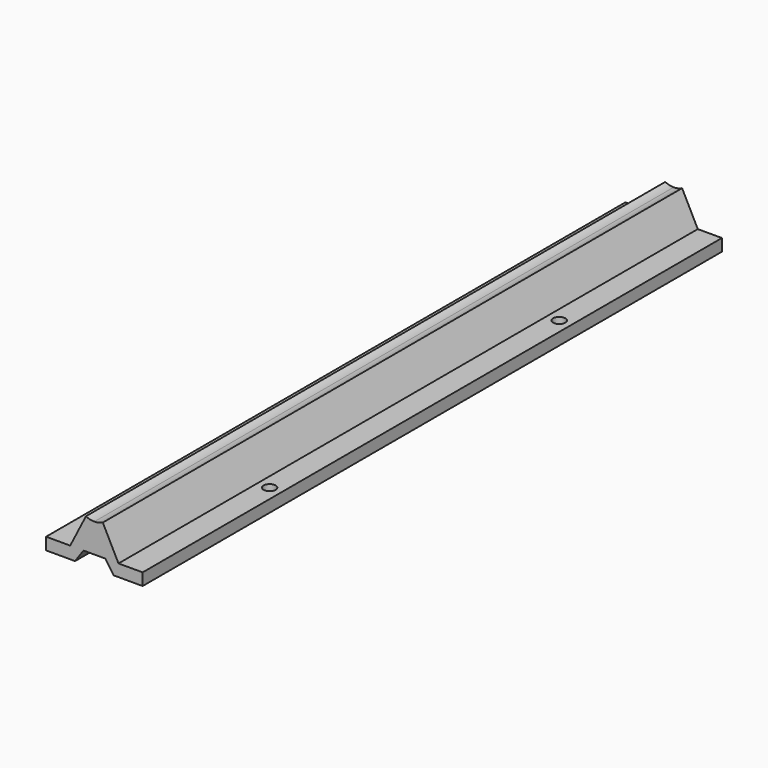
from build123d import *

# Parameters (mm, degrees)
F1_DEPTH = 300
F2_R     = 2.5
F3_DEPTH = 5


with BuildPart() as f1:
    # F0 (on Front) → F1 (new body)
    with BuildSketch(Plane.XZ):
        with BuildLine():
            Line((-4.5, -20), (0, -20))
            Line((0, -20), (4.5, -20))
            Line((4.5, -20), (8, -25))
            Line((8, -25), (20, -25))
            Line((20, -25), (20, -20))
            Line((20, -20), (10, -20))
            Line((10, -20), (3.5, -7.193747))
            ThreePointArc((3.5, -7.193747), (1.795832, -7.795832), (0, -8))
            ThreePointArc((0, -8), (-1.795832, -7.795832), (-3.5, -7.193747))
            Line((-3.5, -7.193747), (-10, -20))
            Line((-10, -20), (-20, -20))
            Line((-20, -20), (-20, -25))
            Line((-20, -25), (-8, -25))
            Line((-8, -25), (-4.5, -20))
        make_face()
    extrude(amount=F1_DEPTH)

    # F2 (on face) → F3 (cut, through all)
    with BuildSketch(Plane.XY.offset(-20)):
        with Locations((15, -228)):
            Circle(F2_R)
        with Locations((15, -78)):
            Circle(F2_R)
        with Locations((-15, -78)):
            Circle(F2_R)
        with Locations((-15, -228)):
            Circle(F2_R)
    extrude(amount=-F3_DEPTH, mode=Mode.SUBTRACT)


solid = f1.part
